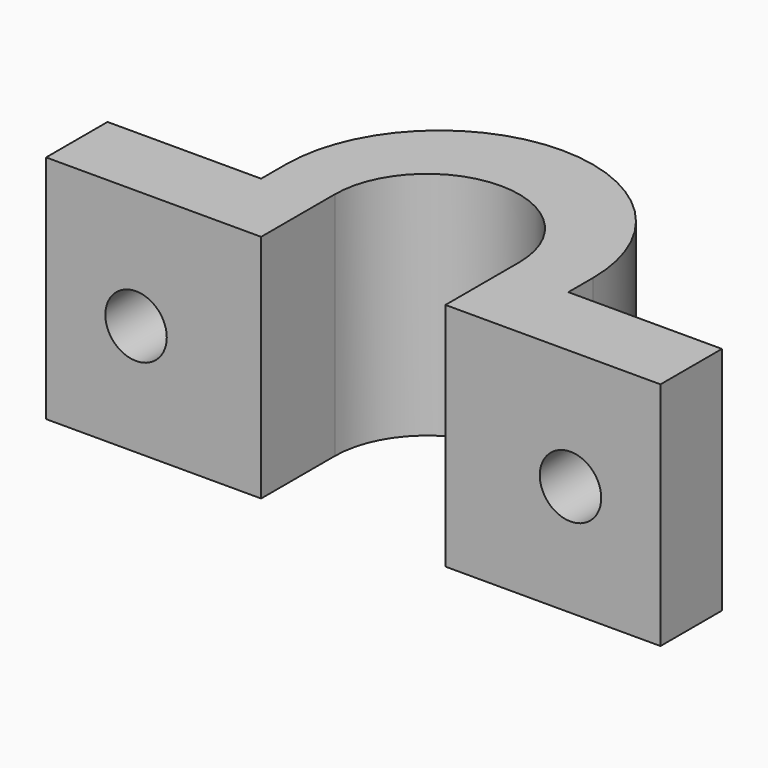
from build123d import *

# Parameters (mm, degrees)
F1_DEPTH = 15
F2_R     = 2
F3_DEPTH = 25


with BuildPart() as f1:
    # F0 (on Top) → F1 (new body)
    with BuildSketch(Plane.XY):
        with BuildLine():
            ThreePointArc((10, 7), (0, 17), (-10, 7))
            Line((-10, 7), (-10, 5))
            Line((-10, 5), (-20, 5))
            Line((-20, 5), (-20, 0))
            Line((-20, 0), (-6, 0))
            Line((-6, 0), (-6, 6))
            ThreePointArc((-6, 6), (0, 12), (6, 6))
            Line((6, 6), (6, 0))
            Line((6, 0), (20, 0))
            Line((20, 0), (20, 5))
            Line((20, 5), (10, 5))
            Line((10, 5), (10, 7))
        make_face()
    extrude(amount=F1_DEPTH)

    # F2 (on Front) → F3 (cut)
    with BuildSketch(Plane.XZ):
        with Locations((-14.142513, 7.235705)):
            Circle(F2_R)
        with Locations((14.142513, 7.235705)):
            Circle(F2_R)
    extrude(amount=-F3_DEPTH, mode=Mode.SUBTRACT)


solid = f1.part
